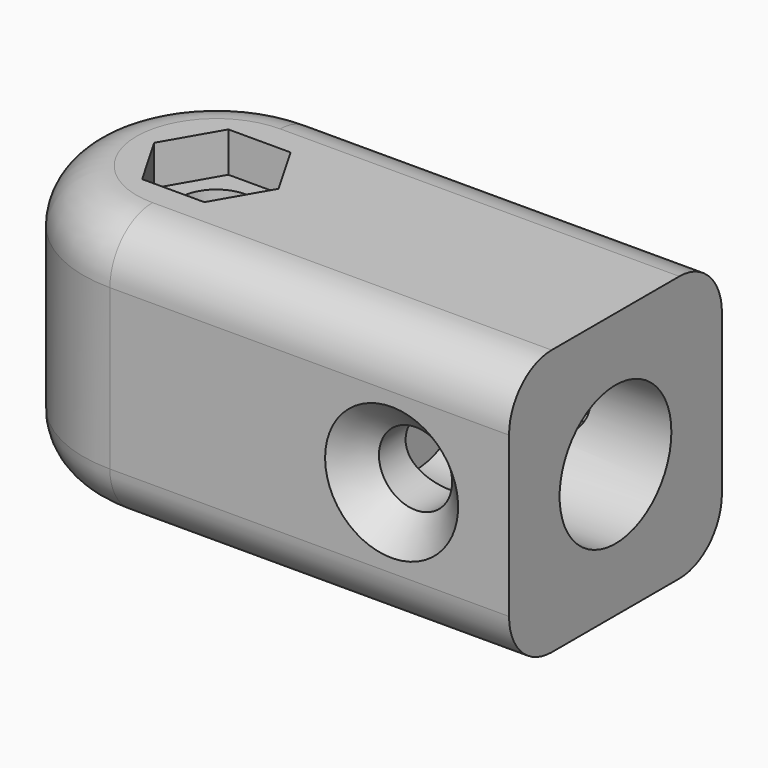
from build123d import *

# Parameters (mm, degrees)
PAD_DEPTH           = 20
SKETCH001_R         = 5.25
POCKET_DEPTH        = 15
HOLE_D              = 5.5
HOLE_CSINK_D        = 10
HOLE_CSINK_ANGLE    = 90
POCKET001_DEPTH     = 3
FILLET_R            = 4
HOLE001_D           = 5.5
HOLE001_DEPTH       = 25
HOLE001_CSINK_D     = 10
HOLE001_CSINK_ANGLE = 90
POCKET002_DEPTH     = 3


with BuildPart() as part:
    # Sketch → Pad (new body)
    with BuildSketch(Plane.XY):
        with BuildLine():
            Line((-30, 10), (0, 10))
            Line((0, 10), (0, -10))
            Line((0, -10), (-30, -10))
            ThreePointArc((-30, 10), (-40, 0), (-30, -10))
        make_face()
    extrude(amount=PAD_DEPTH)

    # Sketch001 (on Face2 of Pad) → Pocket (cut)
    with BuildSketch(Plane.YZ):
        with Locations((0, 10)):
            Circle(SKETCH001_R)
    extrude(amount=-POCKET_DEPTH, mode=Mode.SUBTRACT)

    # Hole (through all)
    with Locations(Plane.XZ.offset(10)):
        with Locations((-8.827239, 10)):
            CounterSinkHole(HOLE_D / 2, HOLE_CSINK_D / 2, counter_sink_angle=HOLE_CSINK_ANGLE)

    # Sketch004 (on Face1 of Hole) → Pocket001 (cut)
    with BuildSketch(Plane(origin=(0, 10, 0), x_dir=(-1, 0, 0), z_dir=(0, 1, 0))):
        Polygon((11.165508, 5.95), (13.503776, 10), (11.165508, 14.05), (6.48897, 14.05), (4.150702, 10), (6.48897, 5.95), align=None)
    extrude(amount=-POCKET001_DEPTH, mode=Mode.SUBTRACT)

    # Fillet
    fillet_edges = [part.edges().sort_by_distance(p)[0] for p in [
        (-15, -10, 0),
        (-40, 0, 0),
        (-15, 10, 0),
        (-40, 0, 20),
        (-15, 10, 20),
    ]]
    fillet(fillet_edges, radius=FILLET_R)

    # Hole001
    with Locations(Plane(origin=(0, 0, 0), x_dir=(1, 0, 0), z_dir=(0, 0, -1))):
        with Locations((-30, 0)):
            CounterSinkHole(HOLE001_D / 2, HOLE001_CSINK_D / 2, depth=HOLE001_DEPTH, counter_sink_angle=HOLE001_CSINK_ANGLE)

    # Sketch006 (on Face16 of Hole001) → Pocket002 (cut)
    with BuildSketch(Plane.XY.offset(20)):
        Polygon((-27.661731, -4.05), (-25.323463, 0), (-27.661731, 4.05), (-32.338269, 4.05), (-34.676537, 0), (-32.338269, -4.05), align=None)
    extrude(amount=-POCKET002_DEPTH, mode=Mode.SUBTRACT)


solid = part.part
